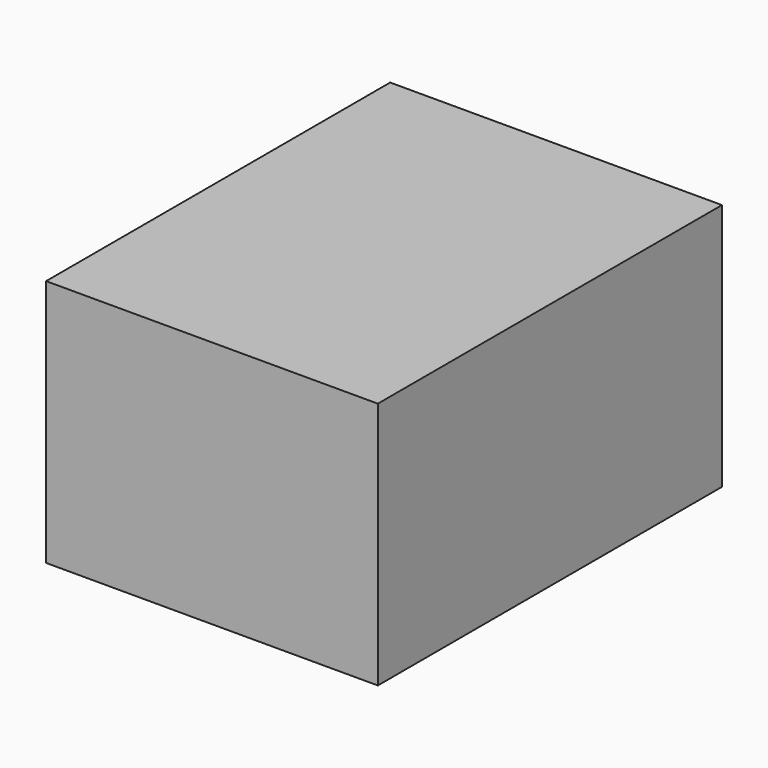
from build123d import *

# Parameters (mm, degrees)
F0_W     = 67.9279565811
F0_H     = 88.0647003651
F1_DEPTH = 25.4
F2_DEPTH = 25.4
F3_DEPTH = 25.4


with BuildPart() as f1:
    # F0 (on Top) → F1 (new body)
    with BuildSketch(Plane.XY):
        Rectangle(F0_W, F0_H)
    extrude(amount=F1_DEPTH)

    # F2 (add): a face of the model
    f2_faces = [f1.faces().sort_by_distance(p)[0] for p in [
        (0, 0, 25.4),
    ]]
    extrude(f2_faces, amount=F2_DEPTH)

    # F0 (on Top) → F3 (join)
    with BuildSketch(Plane.XY):
        Rectangle(F0_W, F0_H)
    extrude(amount=F3_DEPTH)


solid = f1.part
